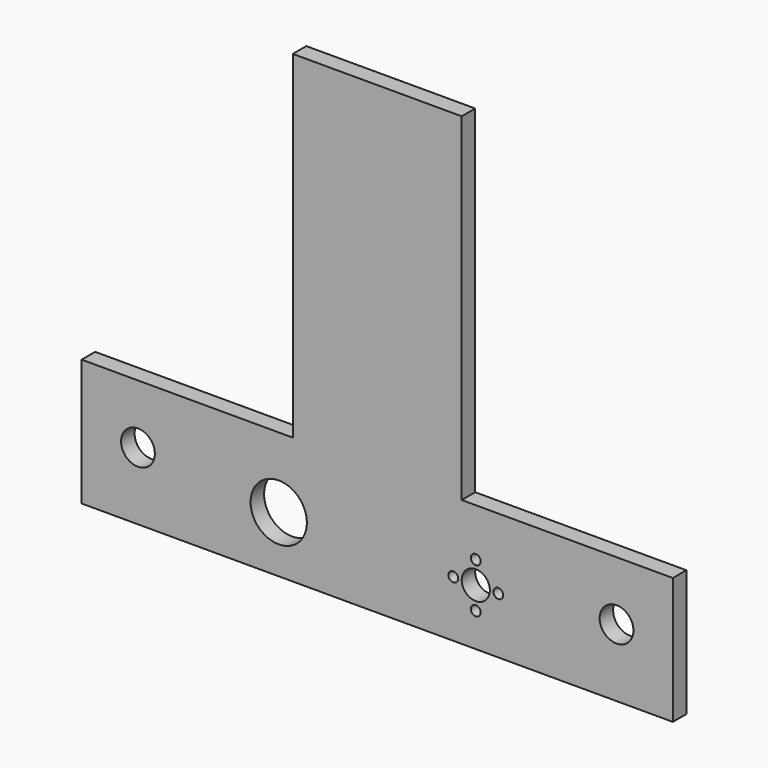
from build123d import *

# Parameters (mm, degrees)
SKETCH_R   = 10
SKETCH_R_2 = 5
SKETCH_R_3 = 6
SKETCH_R_4 = 1.75
PAD_DEPTH  = 6


with BuildPart() as part:
    # Sketch → Pad (new body)
    with BuildSketch(Plane.XZ):
        Polygon((0, 0), (210, 0), (210, 45), (135, 45), (135, 165), (75, 165), (75, 45), (0, 45), align=None)
        with Locations((70, 20)):
            Circle(SKETCH_R, mode=Mode.SUBTRACT)
        with Locations((140, 20)):
            Circle(SKETCH_R_2, mode=Mode.SUBTRACT)
        with Locations((20, 24)):
            Circle(SKETCH_R_3, mode=Mode.SUBTRACT)
        with Locations((190, 24)):
            Circle(SKETCH_R_3, mode=Mode.SUBTRACT)
        with Locations((140, 28)):
            Circle(SKETCH_R_4, mode=Mode.SUBTRACT)
        with Locations((132, 20)):
            Circle(SKETCH_R_4, mode=Mode.SUBTRACT)
        with Locations((140, 12)):
            Circle(SKETCH_R_4, mode=Mode.SUBTRACT)
        with Locations((148, 20)):
            Circle(SKETCH_R_4, mode=Mode.SUBTRACT)
    extrude(amount=PAD_DEPTH)


solid = part.part
